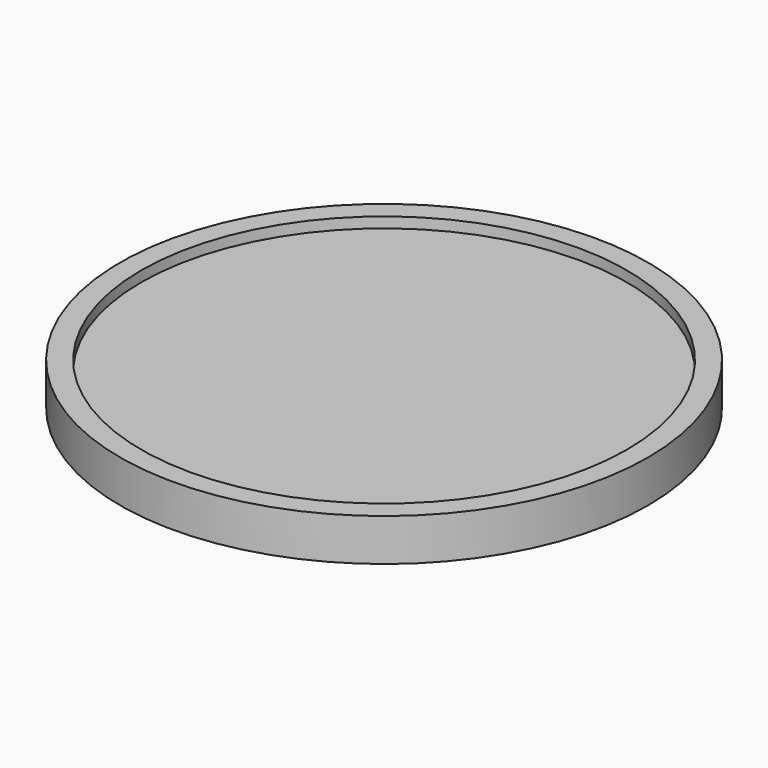
from build123d import *

# Parameters (mm, degrees)
F1_R     = 12.5
F2_DEPTH = 2
F3_R     = 11.5
F4_DEPTH = 0.5
F5_R     = 11.5
F6_DEPTH = 0.5


with BuildPart() as f2:
    # F1 (on Top) → F2 (new body)
    with BuildSketch(Plane.XY):
        Circle(F1_R)
    extrude(amount=F2_DEPTH)

    # F3 (on face) → F4 (cut)
    with BuildSketch(Plane.XY.offset(2)):
        Circle(F3_R)
    extrude(amount=-F4_DEPTH, mode=Mode.SUBTRACT)

    # F5 (on face) → F6 (cut)
    with BuildSketch(Plane(origin=(0, 0, 0), x_dir=(1, 0, 0), z_dir=(0, 0, -1))):
        Circle(F5_R)
    extrude(amount=-F6_DEPTH, mode=Mode.SUBTRACT)


solid = f2.part
